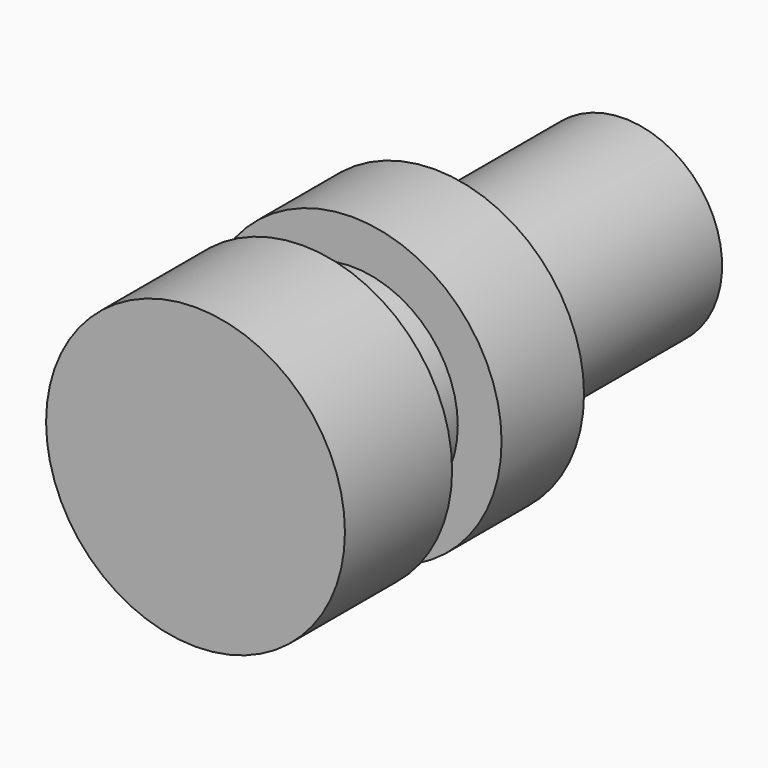
from build123d import *

# Parameters (mm, degrees)
F0_R     = 10.25
F1_DEPTH = 6
F2_R     = 14.5
F3_DEPTH = 13
F4_R     = 14.5
F5_DEPTH = 10
F6_R     = 9.5
F7_DEPTH = 23


with BuildPart() as f1:
    # F0 (on Front) → F1 (new body)
    with BuildSketch(Plane.XZ):
        Circle(F0_R)
    extrude(amount=F1_DEPTH)

    # F2 (on face) → F3 (join)
    with BuildSketch(Plane.XZ.offset(6)):
        Circle(F2_R)
    extrude(amount=F3_DEPTH)

    # F4 (on face) → F5 (join)
    with BuildSketch(Plane(origin=(0, 0, 0), x_dir=(-1, 0, 0), z_dir=(0, 1, 0))):
        Circle(F4_R)
    extrude(amount=F5_DEPTH)

    # F6 (on face) → F7 (join)
    with BuildSketch(Plane(origin=(0, 10, 0), x_dir=(-1, 0, 0), z_dir=(0, 1, 0))):
        Circle(F6_R)
    extrude(amount=F7_DEPTH)


solid = f1.part
